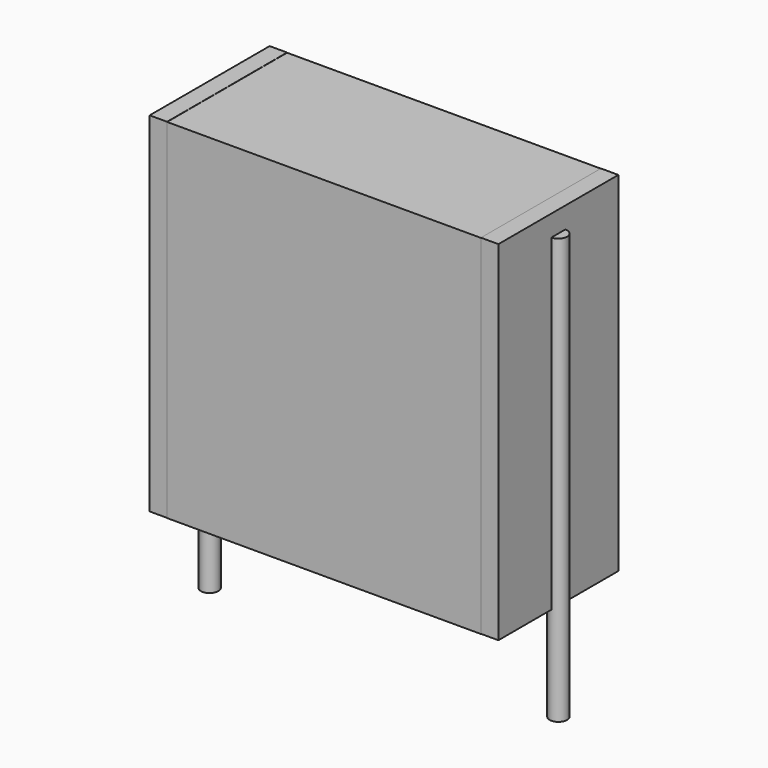
from build123d import *

# Parameters (mm, degrees)
SKETCH_W          = 9
SKETCH_H          = 4.3
PAD_DEPTH         = 10
SKETCH001_R       = 0.25
PAD001_DEPTH      = 9
PAD001_DEPTH_BACK = 3.2
SKETCH002_W       = 0.5
SKETCH002_H       = 4.3
PAD002_DEPTH      = 10


with BuildPart() as pad:
    # Sketch → Pad (new body)
    with BuildSketch(Plane.XY.offset(0.1)):
        with Locations((5, 0)):
            Rectangle(SKETCH_W, SKETCH_H)
    extrude(amount=PAD_DEPTH)


with BuildPart() as pad001:
    # Sketch001 → Pad001 (new body, two sides)
    with BuildSketch(Plane.XY.offset(0.5)) as pad001_sk:
        Circle(SKETCH001_R)
        with Locations((10, 0)):
            Circle(SKETCH001_R)
    extrude(amount=PAD001_DEPTH)
    extrude(pad001_sk.sketch, amount=-PAD001_DEPTH_BACK)


with BuildPart() as pad002:
    # Sketch002 → Pad002 (new body)
    with BuildSketch(Plane.XY.offset(0.105)):
        with Locations((0.25, 0)):
            Rectangle(SKETCH002_W, SKETCH002_H)
        with Locations((9.75, 0)):
            Rectangle(SKETCH002_W, SKETCH002_H)
    extrude(amount=PAD002_DEPTH)


solid = Compound([pad.part, pad001.part, pad002.part])
